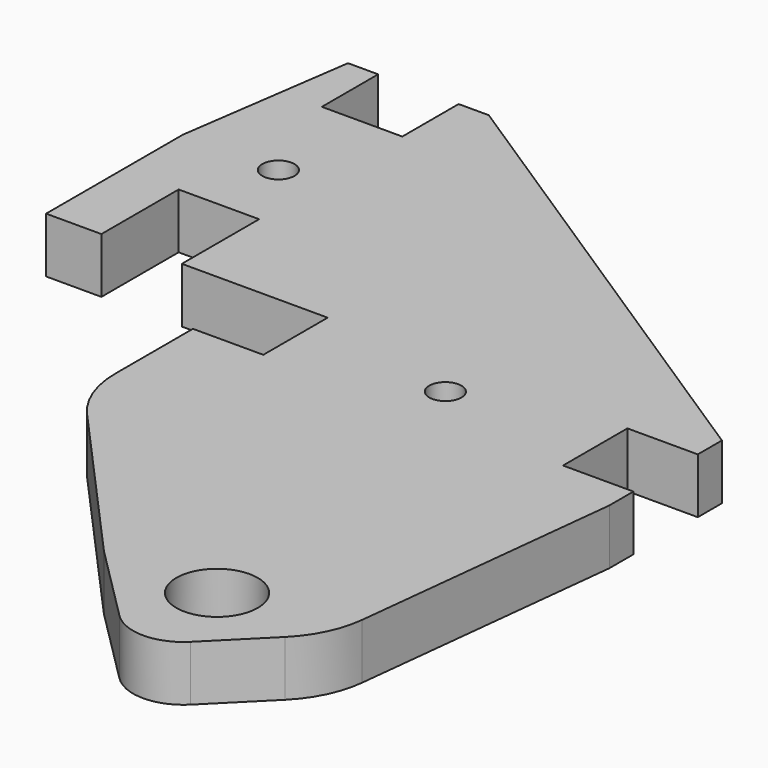
from build123d import *

# Parameters (mm, degrees)
F0_R     = 4.05
F0_R_2   = 1.6
F1_DEPTH = 5.5


with BuildPart() as f1:
    # F0 (on Top) → F1 (new body)
    with BuildSketch(Plane.XY):
        with BuildLine():
            Line((-22.2, 41.5), (-22.2, 37.5))
            Line((-22.2, 37.5), (-22.2, 33.5))
            Line((-22.2, 33.5), (-29.2, 33.5))
            Line((-29.2, 33.5), (-29.2, 23.829429))
            ThreePointArc((-29.2, 23.829429), (-28.538679, 20.253248), (-26.642186, 17.150068))
            Line((-26.642186, 17.150068), (-11.430273, 0.200861))
            ThreePointArc((-11.430273, 0.200861), (-11.247357, 0.002505), (-11.059155, -0.190845))
            Line((-11.059155, -0.190845), (-3.535534, -7.714466))
            ThreePointArc((-3.535534, -7.714466), (0, -9.178932), (3.535534, -7.714466))
            Line((3.535534, -7.714466), (8.764601, -2.485399))
            ThreePointArc((8.764601, -2.485399), (10.709292, 0.259459), (11.633753, 3.493874))
            Line((11.633753, 3.493874), (14.6, 30.5))
            Line((14.6, 30.5), (14.6, 33.5))
            Line((14.6, 33.5), (7.6, 33.5))
            Line((7.6, 33.5), (7.6, 37.5))
            Line((7.6, 37.5), (7.6, 41.5))
            Line((7.6, 41.5), (14.6, 41.5))
            Line((14.6, 41.5), (14.6, 44.5))
            Line((14.6, 44.5), (-33.7, 75.9))
            Line((-33.7, 75.9), (-36.7, 75.9))
            Line((-36.7, 75.9), (-36.7, 68.9))
            Line((-36.7, 68.9), (-40.7, 68.9))
            Line((-40.7, 68.9), (-44.7, 68.9))
            Line((-44.7, 68.9), (-44.7, 75.9))
            Line((-44.7, 75.9), (-47.7, 75.9))
            Line((-47.7, 75.9), (-50.2, 58.5))
            Line((-50.2, 58.5), (-50.2, 41.5))
            Line((-50.2, 41.5), (-44.7, 41.5))
            Line((-44.7, 41.5), (-44.7, 51.1))
            Line((-44.7, 51.1), (-40.7, 51.1))
            Line((-40.7, 51.1), (-36.7, 51.1))
            Line((-36.7, 51.1), (-36.7, 41.5))
            Line((-36.7, 41.5), (-22.2, 41.5))
        make_face()
        Circle(F0_R, mode=Mode.SUBTRACT)
        with Locations((-40.7, 58.5)):
            Circle(F0_R_2, mode=Mode.SUBTRACT)
        with Locations((-7.3, 37.5)):
            Circle(F0_R_2, mode=Mode.SUBTRACT)
    extrude(amount=F1_DEPTH)


solid = f1.part
